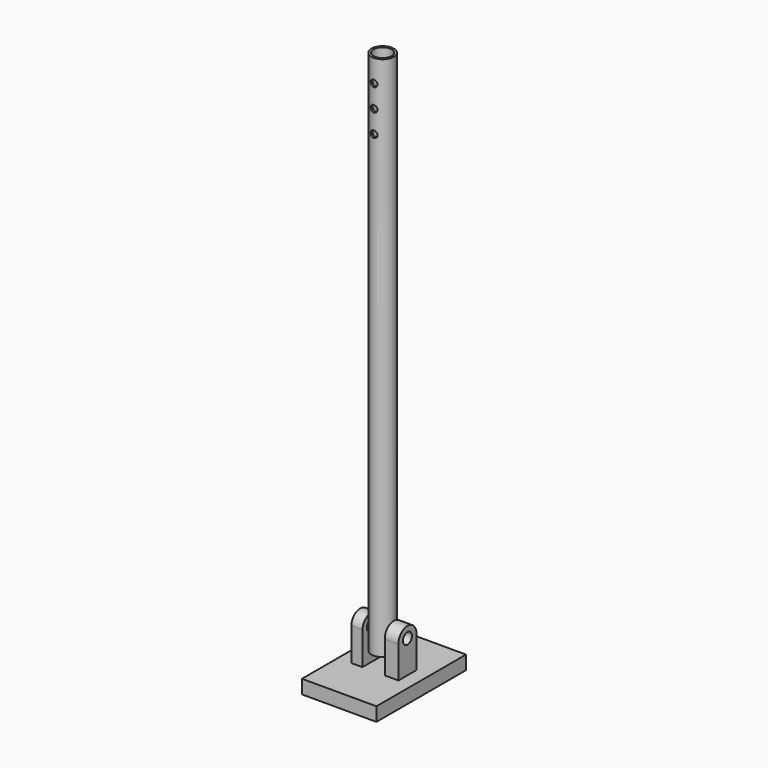
from build123d import *

# Parameters (mm, degrees)
F0_R          = 25.4
F1_DEPTH      = 1193.8
F2_T          = -4.826
F4_DEPTH      = 25.401
F4_DEPTH_BACK = 25.4
F8_DEPTH      = 62.23
F8_DEPTH_BACK = 106.68
F9_DEPTH      = 30.988
F12_DEPTH     = 25.4
F13_R         = 12.7
F14_DEPTH     = 100.584
F15_R         = 12.7
F16_DEPTH     = 25.4


with BuildPart() as f1:
    # F0 (on Top) → F1 (new body)
    with BuildSketch(Plane.XY):
        Circle(F0_R)
    extrude(amount=F1_DEPTH)

    # F2
    f2_openings = [f1.faces().sort_by_distance(p)[0] for p in [
        (0, 0, 1193.8),
    ]]
    offset(amount=F2_T, openings=f2_openings)

    # F3 (on Front) → F4 (cut, two sides)
    with BuildSketch(Plane.XZ) as f4_sk:
        with BuildLine():
            ThreePointArc((0.127, 1135.3810584068), (5.4328694076, 1137.6569362721), (7.62, 1143))
            ThreePointArc((7.62, 1143), (5.4328694076, 1148.3430637279), (0.127, 1150.6189415932))
            ThreePointArc((0.127, 1150.6189415932), (-7.366, 1143), (0.127, 1135.3810584068))
        make_face()
        with BuildLine():
            ThreePointArc((0.127, 1150.6189415932), (5.4328694076, 1148.3430637279), (7.62, 1143))
            ThreePointArc((7.62, 1143), (5.4328694076, 1137.6569362721), (0.127, 1135.3810584068))
            ThreePointArc((0.127, 1135.3810584068), (5.5970637279, 1137.5671305924), (7.874, 1143))
            ThreePointArc((7.874, 1143), (5.5970637279, 1148.4328694076), (0.127, 1150.6189415932))
        make_face()
        with BuildLine():
            ThreePointArc((0.127, 1135.3810584068), (-7.366, 1143), (0.127, 1150.6189415932))
            ThreePointArc((0.127, 1150.6189415932), (-7.62, 1143), (0.127, 1135.3810584068))
        make_face()
        with BuildLine():
            ThreePointArc((0.127, 1084.5810584068), (5.4328694076, 1086.8569362721), (7.62, 1092.2))
            ThreePointArc((7.62, 1092.2), (5.4328694076, 1097.5430637279), (0.127, 1099.8189415932))
            ThreePointArc((0.127, 1099.8189415932), (-7.366, 1092.2), (0.127, 1084.5810584068))
        make_face()
        with BuildLine():
            ThreePointArc((0.127, 1099.8189415932), (5.4328694076, 1097.5430637279), (7.62, 1092.2))
            ThreePointArc((7.62, 1092.2), (5.4328694076, 1086.8569362721), (0.127, 1084.5810584068))
            ThreePointArc((0.127, 1084.5810584068), (5.5970637279, 1086.7671305924), (7.874, 1092.2))
            ThreePointArc((7.874, 1092.2), (5.5970637279, 1097.6328694076), (0.127, 1099.8189415932))
        make_face()
        with BuildLine():
            ThreePointArc((0.127, 1084.5810584068), (-7.366, 1092.2), (0.127, 1099.8189415932))
            ThreePointArc((0.127, 1099.8189415932), (-7.62, 1092.2), (0.127, 1084.5810584068))
        make_face()
        with BuildLine():
            ThreePointArc((0.127, 1033.7810584068), (5.4328694076, 1036.0569362721), (7.62, 1041.4))
            ThreePointArc((7.62, 1041.4), (5.4328694076, 1046.7430637279), (0.127, 1049.0189415932))
            ThreePointArc((0.127, 1049.0189415932), (-7.366, 1041.4), (0.127, 1033.7810584068))
        make_face()
        with BuildLine():
            ThreePointArc((0.127, 1049.0189415932), (5.4328694076, 1046.7430637279), (7.62, 1041.4))
            ThreePointArc((7.62, 1041.4), (5.4328694076, 1036.0569362721), (0.127, 1033.7810584068))
            ThreePointArc((0.127, 1033.7810584068), (5.5970637279, 1035.9671305924), (7.874, 1041.4))
            ThreePointArc((7.874, 1041.4), (5.5970637279, 1046.8328694076), (0.127, 1049.0189415932))
        make_face()
        with BuildLine():
            ThreePointArc((0.127, 1033.7810584068), (-7.366, 1041.4), (0.127, 1049.0189415932))
            ThreePointArc((0.127, 1049.0189415932), (-7.62, 1041.4), (0.127, 1033.7810584068))
        make_face()
    extrude(amount=-F4_DEPTH, mode=Mode.SUBTRACT)
    extrude(f4_sk.sketch, amount=F4_DEPTH_BACK, mode=Mode.SUBTRACT)


with BuildPart() as f8:
    # F6 (on offset) → F8 (new body, two sides)
    with BuildSketch(Plane.YZ.offset(25.4)) as f8_sk:
        Polygon((25.4, -31.1841405928), (-25.4, -31.1841405928), (-127, -31.1841405928), (-127, -62.4623931944), (127, -62.4623931944), (127, -31.1841405928), align=None)
    extrude(amount=F8_DEPTH)
    extrude(f8_sk.sketch, amount=-F8_DEPTH_BACK)


with BuildPart() as f9:
    # F7 (on offset) → F9 (new body)
    with BuildSketch(Plane.YZ.offset(25.4)):
        with BuildLine():
            Line((26.3680387288, -36.1293106656), (25.3980713743, 42.5771290253))
            ThreePointArc((25.3980713743, 42.5771290253), (0.4096116358, 67.6608236775), (-25.3747673048, 43.3960207698))
            Line((-25.3747673048, 43.3960207698), (-25.3747673048, 41.1322325931))
            Line((-25.3747673048, 41.1322325931), (-25.3747673048, -36.1293106656))
            Line((-25.3747673048, -36.1293106656), (26.3680387288, -36.1293106656))
        make_face()
        with BuildLine():
            Line((-25.3747673048, 41.1322325931), (-25.3747673048, 43.3960207698))
            ThreePointArc((-25.3747673048, 43.3960207698), (-25.4, 42.2641266814), (-25.3747673048, 41.1322325931))
        make_face()
    extrude(amount=F9_DEPTH)

    # F13 (on face) → F14 (cut)
    with BuildSketch(Plane.YZ.offset(56.388)):
        with Locations((0, 42.5771290253)):
            Circle(F13_R)
    extrude(amount=-F14_DEPTH, mode=Mode.SUBTRACT)


with BuildPart() as f12:
    # F11 (on offset) → F12 (new body)
    with BuildSketch(Plane.YZ.offset(-25.4)):
        with BuildLine():
            Line((26.3680387288, -36.1293106656), (25.3980713743, 42.5771290253))
            ThreePointArc((25.3980713743, 42.5771290253), (0.4096116358, 67.6608236775), (-25.3747673048, 43.3960207698))
            Line((-25.3747673048, 43.3960207698), (-25.3747673048, 41.1322325931))
            Line((-25.3747673048, 41.1322325931), (-25.3747673048, -36.1293106656))
            Line((-25.3747673048, -36.1293106656), (26.3680387288, -36.1293106656))
        make_face()
    extrude(amount=-F12_DEPTH)

    # F15 (on face) → F16 (cut)
    with BuildSketch(Plane(origin=(-50.8, 0, 0), x_dir=(0, -1, 0), z_dir=(-1, 0, 0))):
        with Locations((0, 42.2641266814)):
            Circle(F15_R)
    extrude(amount=-F16_DEPTH, mode=Mode.SUBTRACT)


solid = Compound([f1.part, f8.part, f9.part, f12.part])
